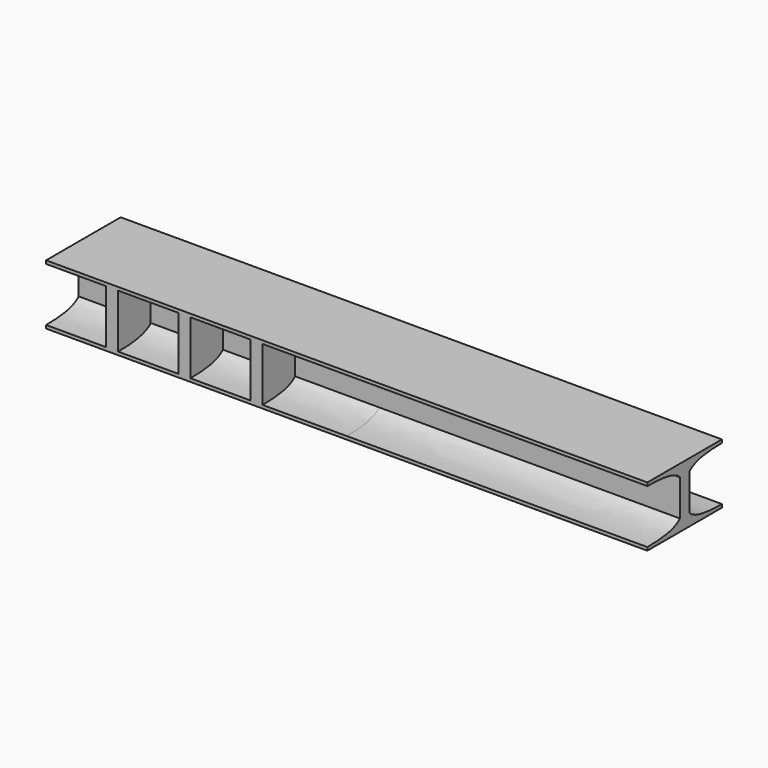
from build123d import *

# Parameters (mm, degrees)
F1_DEPTH = 500
F2_W     = 20
F2_H     = 155.0133458981
F3_DEPTH = 100


with BuildPart() as f1:
    # F0 (on Right) → F1 (new body, symmetric)
    with BuildSketch(Plane.YZ):
        with BuildLine():
            Line((-10, 30.1718171686), (-10, 50))
            Line((-10, 50), (-77.506672949, 50))
            Line((-77.506672949, 50), (-77.506672949, 44.6474738419))
            add(Edge.make_bspline(
                [(-10, 30.1718171686), (-13.5298780465, 34.4694521291), (-31.683976759, 43.2200007367), (-60.0829758232, 44.632838455), (-77.506672949, 44.6474738419)],
                knots=[0, 0, 0, 0, 0.406918125, 1, 1, 1, 1], degree=3))
        make_face()
        Polygon((10, 30.1718171686), (10, 50), (-10, 50), (-10, 30.1718171686), (-10, -30.1718171686), (-10, -50), (10, -50), (10, -30.1718171686), align=None)
        with BuildLine():
            Line((77.506672949, 44.6474738419), (77.506672949, 50))
            Line((77.506672949, 50), (10, 50))
            Line((10, 50), (10, 30.1718171686))
            add(Edge.make_bspline(
                [(10, 30.1718171686), (13.5298780465, 34.4694521291), (31.683976759, 43.2200007367), (60.0829758232, 44.632838455), (77.506672949, 44.6474738419)],
                knots=[0, 0, 0, 0, 0.406918125, 1, 1, 1, 1], degree=3))
        make_face()
        with BuildLine():
            add(Edge.make_bspline(
                [(10, -30.1718171686), (13.5298780465, -34.4694521291), (31.683976759, -43.2200007367), (60.0829758232, -44.632838455), (77.506672949, -44.6474738419)],
                knots=[0, 0, 0, 0, 0.406918125, 1, 1, 1, 1], degree=3))
            Line((10, -30.1718171686), (10, -50))
            Line((10, -50), (77.506672949, -50))
            Line((77.506672949, -50), (77.506672949, -44.6474738419))
        make_face()
        with BuildLine():
            Line((-10, -50), (-10, -30.1718171686))
            add(Edge.make_bspline(
                [(-10, -30.1718171686), (-13.5298780465, -34.4694521291), (-31.683976759, -43.2200007367), (-60.0829758232, -44.632838455), (-77.506672949, -44.6474738419)],
                knots=[0, 0, 0, 0, 0.406918125, 1, 1, 1, 1], degree=3))
            Line((-77.506672949, -44.6474738419), (-77.506672949, -50))
            Line((-77.506672949, -50), (-10, -50))
        make_face()
    extrude(amount=F1_DEPTH, both=True)

    # F2 (on face) → F3 (join)
    with BuildSketch(Plane.XY.offset(50)):
        with Locations((-390, 0)):
            Rectangle(F2_W, F2_H)
        with Locations((-270, 0)):
            Rectangle(F2_W, F2_H)
        with Locations((-150, 0)):
            Rectangle(F2_W, F2_H)
    extrude(amount=-F3_DEPTH)


solid = f1.part
